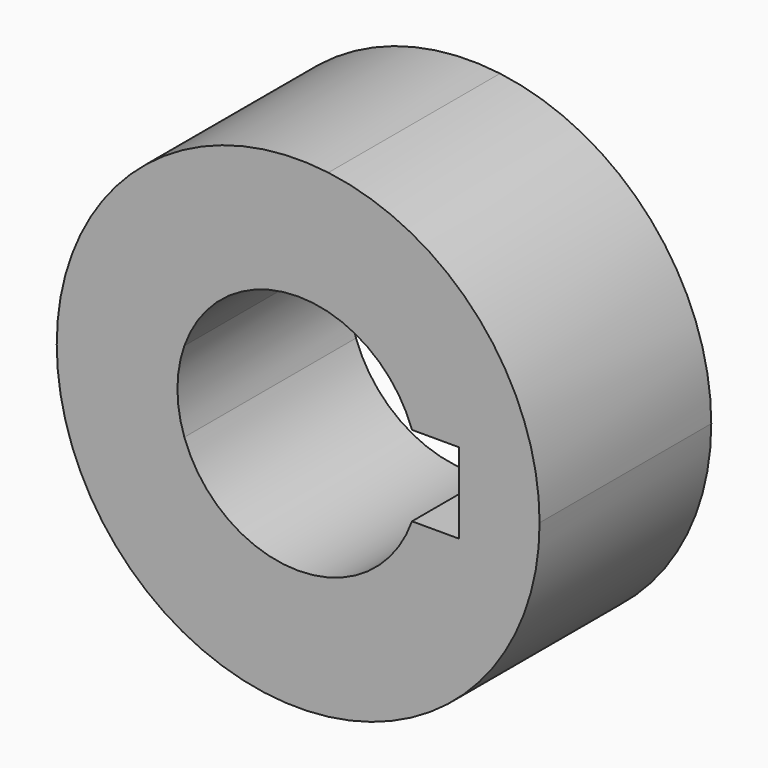
from build123d import *

# Parameters (mm, degrees)
F1_DEPTH = 25.4


with BuildPart() as f1:
    # F0 (on Front) → F1 (new body)
    with BuildSketch(Plane.XZ):
        with BuildLine():
            ThreePointArc((3.571875, -28.350879), (21.43125, -18.900586), (28.575, 0))
            ThreePointArc((28.575, 0), (21.43125, 18.900586), (3.571875, 28.350879))
            ThreePointArc((3.571875, 28.350879), (-28.575, 0), (3.571875, -28.350879))
        make_face()
        with BuildLine():
            ThreePointArc((-13.470384, 4.7625), (0, 14.2875), (13.470384, 4.7625))
            Line((13.470384, 4.7625), (19.05, 4.7625))
            Line((19.05, 4.7625), (19.05, -4.7625))
            Line((19.05, -4.7625), (13.470384, -4.7625))
            ThreePointArc((13.470384, -4.7625), (0, -14.2875), (-13.470384, -4.7625))
            Line((-13.470384, -4.7625), (-19.05, -4.7625))
            Line((-19.05, -4.7625), (-19.05, 4.7625))
            Line((-19.05, 4.7625), (-13.470384, 4.7625))
        make_face(mode=Mode.SUBTRACT)
        with BuildLine():
            ThreePointArc((-13.470384, -4.7625), (-14.2875, 0), (-13.470384, 4.7625))
            Line((-13.470384, 4.7625), (-19.05, 4.7625))
            Line((-19.05, 4.7625), (-19.05, -4.7625))
            Line((-19.05, -4.7625), (-13.470384, -4.7625))
        make_face()
    extrude(amount=F1_DEPTH)


solid = f1.part
